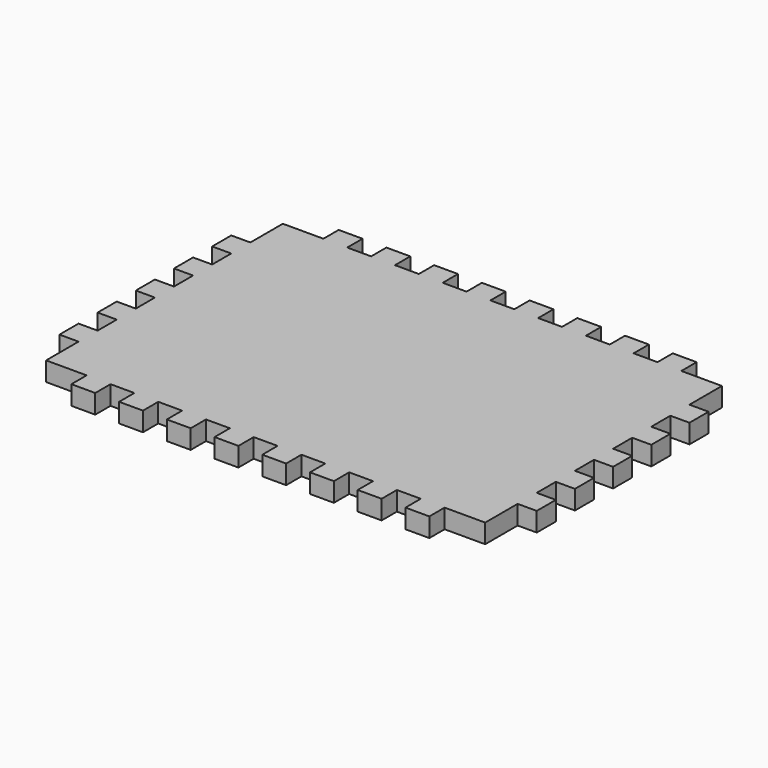
from build123d import *

# Parameters (mm, degrees)
F1_DEPTH = 10.16


with BuildPart() as f1:
    # F0 (on Top) → F1 (new body)
    with BuildSketch(Plane.XY):
        Polygon((44.45, 0), (31.75, 0), (31.75, -10.16), (10.16, -10.16), (10.16, -31.75), (0, -31.75), (0, -44.45), (10.16, -44.45), (10.16, -57.15), (0, -57.15), (0, -69.85), (10.16, -69.85), (10.16, -82.55), (0, -82.55), (0, -95.25), (10.16, -95.25), (10.16, -107.95), (0, -107.95), (0, -120.65), (10.16, -120.65), (10.16, -133.35), (0, -133.35), (0, -146.05), (10.16, -146.05), (10.16, -167.64), (31.75, -167.64), (31.75, -177.8), (44.45, -177.8), (44.45, -167.64), (57.15, -167.64), (57.15, -177.8), (69.85, -177.8), (69.85, -167.64), (82.55, -167.64), (82.55, -177.8), (95.25, -177.8), (95.25, -167.64), (107.95, -167.64), (107.95, -177.8), (120.65, -177.8), (120.65, -167.64), (133.35, -167.64), (133.35, -177.8), (146.05, -177.8), (146.05, -167.64), (158.75, -167.64), (158.75, -177.8), (171.45, -177.8), (171.45, -167.64), (184.15, -167.64), (184.15, -177.8), (196.85, -177.8), (196.85, -167.64), (209.55, -167.64), (209.55, -177.8), (222.25, -177.8), (222.25, -167.64), (243.84, -167.64), (243.84, -146.05), (254, -146.05), (254, -133.35), (243.84, -133.35), (243.84, -120.65), (254, -120.65), (254, -107.95), (243.84, -107.95), (243.84, -95.25), (254, -95.25), (254, -82.55), (243.84, -82.55), (243.84, -69.85), (254, -69.85), (254, -57.15), (243.84, -57.15), (243.84, -44.45), (254, -44.45), (254, -31.75), (243.84, -31.75), (243.84, -10.16), (222.25, -10.16), (222.25, 0), (209.55, 0), (209.55, -10.16), (196.85, -10.16), (196.85, 0), (184.15, 0), (184.15, -10.16), (171.45, -10.16), (171.45, 0), (158.75, 0), (158.75, -10.16), (146.05, -10.16), (146.05, 0), (133.35, 0), (133.35, -10.16), (120.65, -10.16), (120.65, 0), (107.95, 0), (107.95, -10.16), (95.25, -10.16), (95.25, 0), (82.55, 0), (82.55, -10.16), (69.85, -10.16), (69.85, 0), (57.15, 0), (57.15, -10.16), (44.45, -10.16), align=None)
    extrude(amount=F1_DEPTH)


solid = f1.part
